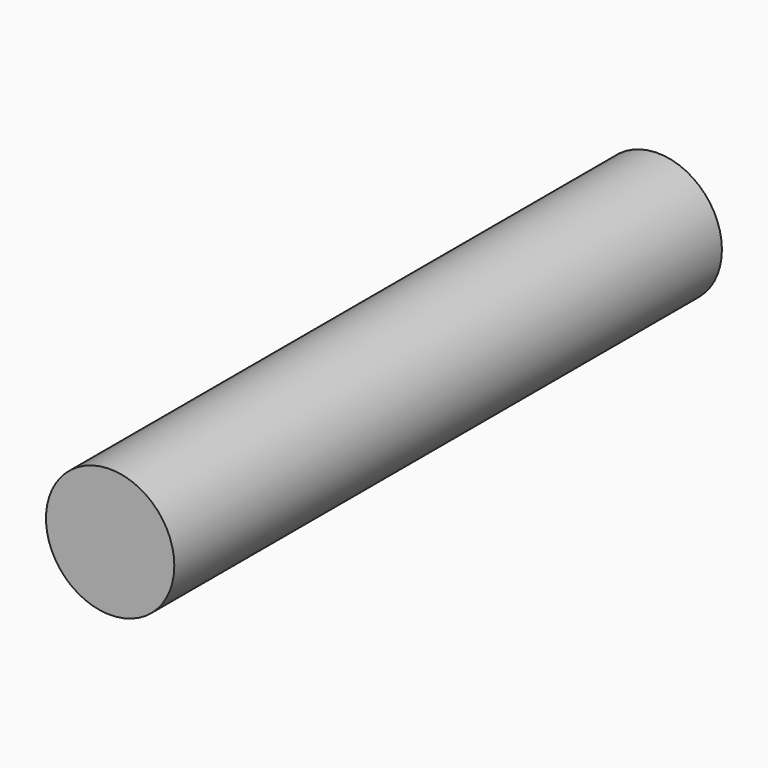
from build123d import *

# Parameters (mm, degrees)
F0_R      = 19.05
F0_R_2    = 15.875
F1_DEPTH  = 203.2
F1_FACE_R = 19.05
F2_DEPTH  = 25.4
F2_FACE_R = 19.05
F3_DEPTH  = 25.4


with BuildPart() as f1:
    # F0 (on Front) → F1 (new body)
    with BuildSketch(Plane.XZ):
        Circle(F0_R)
        Circle(F0_R_2, mode=Mode.SUBTRACT)
        Circle(F0_R_2)
    extrude(amount=F1_DEPTH)

    # F1_face (on face) → F2 (cut)
    with BuildSketch(Plane(origin=(0, 0, 0), x_dir=(1, 0, 0), z_dir=(0, 1, 0))):
        Circle(F1_FACE_R)
    extrude(amount=-F2_DEPTH, mode=Mode.SUBTRACT)

    # F2_face (on face) → F3 (join)
    with BuildSketch(Plane(origin=(0, -25.4, 0), x_dir=(1, 0, 0), z_dir=(0, 1, 0))):
        Circle(F2_FACE_R)
    extrude(amount=F3_DEPTH)


solid = f1.part
